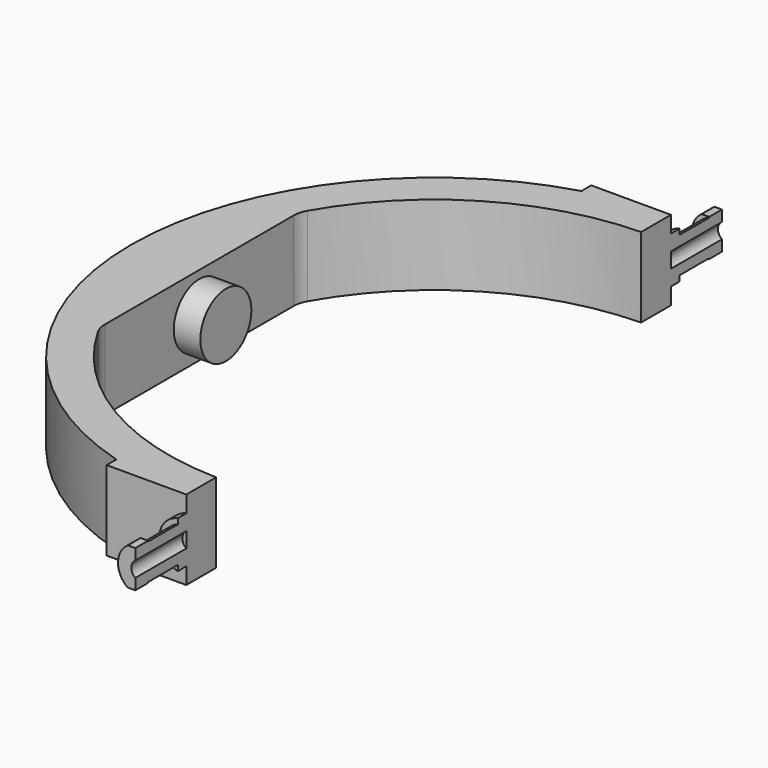
from build123d import *

# Parameters (mm, degrees)
F1_DEPTH  = 15
F2_R      = 6
F3_DEPTH  = 5
F4_R      = 5
F6_DEPTH  = 2
F8_DEPTH  = 7
F10_DEPTH = 3
F11_DEPTH = 25
F13_W     = 146.8421146274
F13_H     = 28.1250011176
F14_DEPTH = 1
F15_W     = 11.3657170441
F15_H     = 11.5304403007
F15_W_2   = 13.3423628286
F15_H_2   = 13.0129233003
F16_DEPTH = 4
F17_W     = 19.5150814822
F17_H     = 12.7272193491
F17_W_2   = 18.9494257321
F17_H_2   = 10.7474377315
F18_DEPTH = 4


with BuildPart() as f1:
    # F0 (on Top) → F1 (new body)
    with BuildSketch(Plane.XY):
        with BuildLine():
            ThreePointArc((-44.16, 23.4498272915), (-25.7634298515, 42.8514373421), (0, 50))
            Line((0, 50), (0, 57))
            Line((0, 57), (-15.9976914198, 57))
            Line((-15.9976914198, 57), (-15.9976914198, 54.7089925811))
            ThreePointArc((-15.9976914198, 54.7089925811), (-57, 0), (-15.9976914198, -54.7089925811))
            Line((-15.9976914198, -54.7089925811), (-15.9976914198, -57))
            Line((-15.9976914198, -57), (0, -57))
            Line((0, -57), (0, -50))
            ThreePointArc((0, -50), (-25.7634298515, -42.8514373421), (-44.16, -23.4498272915))
            Line((-44.16, -23.4498272915), (-44.16, 23.4498272915))
        make_face()
    extrude(amount=F1_DEPTH)

    # F2 (on face) → F3 (join)
    with BuildSketch(Plane.YZ.offset(-44.16)):
        with Locations((0, 7.5)):
            Circle(F2_R)
    extrude(amount=F3_DEPTH)

    # F4
    f4_edges = [f1.edges().sort_by_distance(p)[0] for p in [
        (-44.16, 23.449827, 7.5),
        (-44.16, -23.449827, 7.5),
    ]]
    fillet(f4_edges, radius=F4_R)

    # F5 (on face) → F6 (join)
    with BuildSketch(Plane.XZ.offset(57)):
        with BuildLine():
            Line((0, 9.25), (0, 12))
            ThreePointArc((0, 12), (-4.5, 7.5), (0, 3))
            Line((0, 3), (0, 5.75))
            ThreePointArc((0, 5.75), (-1.75, 7.5), (0, 9.25))
        make_face()
    extrude(amount=F6_DEPTH)

    # F7 (on face) → F8 (join)
    with BuildSketch(Plane.XZ.offset(59)):
        with BuildLine():
            Line((0, 9.25), (0, 11))
            ThreePointArc((0, 11), (-3.5, 7.5), (0, 4))
            Line((0, 4), (0, 5.75))
            ThreePointArc((0, 5.75), (-1.75, 7.5), (0, 9.25))
        make_face()
    extrude(amount=F8_DEPTH)

    # F9 (on face) → F10 (join)
    with BuildSketch(Plane.XZ.offset(66)):
        with BuildLine():
            Line((0, 3.25), (0, 11.75))
            ThreePointArc((0, 11.75), (-4.25, 7.5), (0, 3.25))
        make_face()
    extrude(amount=F10_DEPTH)

    # F11 (cut): a face of the model
    f11_faces = [f1.faces().sort_by_distance(p)[0] for p in [
        (-0.7427230678, -66, 7.5),
    ]]
    extrude(f11_faces, amount=-F11_DEPTH, mode=Mode.SUBTRACT)

    # F12: F1 across plane


with BuildPart() as f1_1:
    add(f1.part)
    add(f1.part.mirror(Plane.XZ))

    # F13 (on Right) → F14 (cut)
    with BuildSketch(Plane.YZ):
        with Locations((0.2960525453, 7.5493426993)):
            Rectangle(F13_W, F13_H)
    extrude(amount=-F14_DEPTH, mode=Mode.SUBTRACT)

    # F15 (on Top) → F16 (cut)
    with BuildSketch(Plane.XY):
        with Locations((-1.9552764716, -64.7652201504)):
            Rectangle(F15_W, F15_H)
        with Locations((-2.1199961193, 65.5064616501)):
            Rectangle(F15_W_2, F15_H_2)
    extrude(amount=F16_DEPTH, mode=Mode.SUBTRACT)

    # F17 (on face) → F18 (cut)
    with BuildSketch(Plane.XY.offset(15)):
        with Locations((-4.4578294758, 65.3636096745)):
            Rectangle(F17_W, F17_H)
        with Locations((-2.7608656596, -64.3737188657)):
            Rectangle(F17_W_2, F17_H_2)
    extrude(amount=-F18_DEPTH, mode=Mode.SUBTRACT)


solid = f1_1.part
